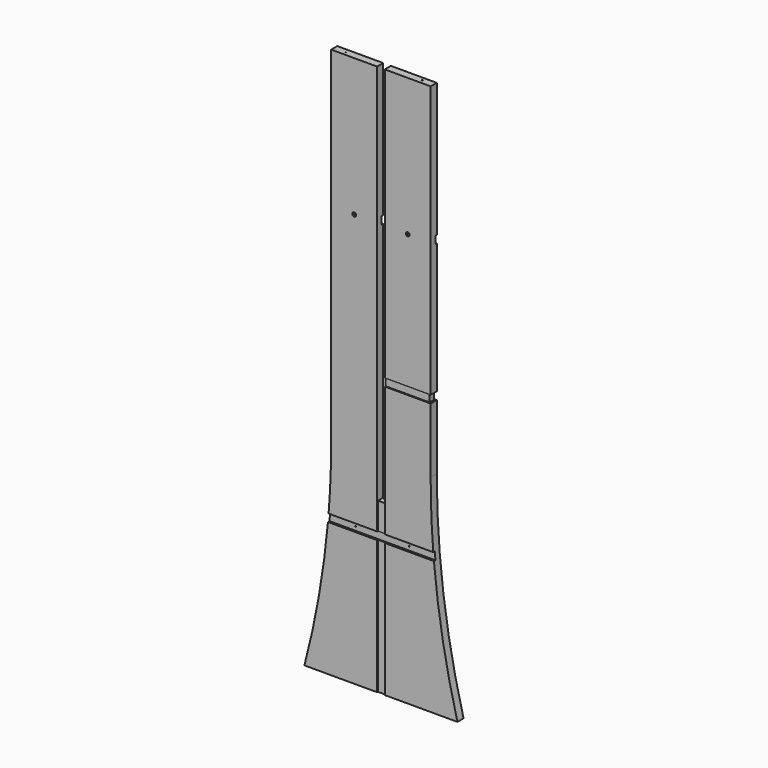
from build123d import *

# Parameters (mm, degrees)
F1_DEPTH       = 12.7
F25_DEPTH      = 38.1
F3_D           = 3.175
F3_DEPTH       = 63.5
F3_CBORE_D     = 12.7
F3_CBORE_DEPTH = 6.35
F3_TIP         = 0.9538662327
F5_D           = 3.175
F5_DEPTH       = 63.5
F5_CBORE_D     = 12.7
F5_CBORE_DEPTH = 6.35
F5_TIP         = 0.9538662327
F7_D           = 3.175
F7_DEPTH       = 63.5
F7_TIP         = 0.9538662327
F9_D           = 3.175
F9_DEPTH       = 63.5
F9_TIP         = 0.9538662327
F10_W          = 330.2
F10_H          = 25.4
F11_DEPTH      = 6.35
F12_W          = 426.9362986088
F12_H          = 25.4
F13_DEPTH      = 6.35
F14_W          = 25.4
F14_H          = 558.8
F15_DEPTH      = 3.175
F16_W          = 25.4
F16_H          = 558.8
F17_DEPTH      = 3.175
F19_W          = 12.7
F19_H          = 25.4
F20_DEPTH      = 25.4
F18_W          = 165.1
F18_H          = 25.4
F21_DEPTH      = 3.175
F22_W          = 165.1
F22_H          = 25.4
F23_DEPTH      = 3.175


with BuildPart() as f1:
    # F0 (on Front) → F1 (new body, symmetric)
    with BuildSketch(Plane.XZ):
        with BuildLine():
            Line((165.1, 1828.8), (0, 1828.8))
            Line((0, 1828.8), (-165.1, 1828.8))
            Line((-165.1, 1828.8), (-165.1, 685.8))
            ThreePointArc((-165.1, 685.8), (-187.4175900274, 340.0309838924), (-254, 0))
            Line((-254, 0), (0, 0))
            Line((0, 0), (254, 0))
            ThreePointArc((254, 0), (187.4175900273, 340.0309838924), (165.1, 685.8))
            Line((165.1, 685.8), (165.1, 1828.8))
        make_face()
    extrude(amount=F1_DEPTH, both=True)

    # F24 (on face) → F25 (cut)
    with BuildSketch(Plane.XZ.offset(12.7)):
        Polygon((-12.7, 558.8), (0, 558.8), (12.7, 558.8), (12.7, 1828.8), (0, 1828.8), (-12.7, 1828.8), align=None)
    extrude(amount=-F25_DEPTH, mode=Mode.SUBTRACT)

    # F3
    with Locations(Plane.XZ.offset(12.7)):
        with Locations((-88.9, 1371.6), (88.9, 1371.6)):
            CounterBoreHole(F3_D / 2, F3_CBORE_D / 2, F3_CBORE_DEPTH, depth=F3_DEPTH)
            with Locations((0, 0, -(F3_DEPTH + F3_TIP / 2))):  # 118° drill point
                Cone(0, F3_D / 2, F3_TIP, mode=Mode.SUBTRACT)

    # F5
    with Locations(Plane(origin=(0, 12.7, 0), x_dir=(-1, 0, 0), z_dir=(0, 1, 0))):
        with Locations((-88.9, 457.2), (88.9, 457.2)):
            CounterBoreHole(F5_D / 2, F5_CBORE_D / 2, F5_CBORE_DEPTH, depth=F5_DEPTH)
            with Locations((0, 0, -(F5_DEPTH + F5_TIP / 2))):  # 118° drill point
                Cone(0, F5_D / 2, F5_TIP, mode=Mode.SUBTRACT)

    # F7
    with Locations(Plane.XY.offset(1828.8)):
        with Locations((-127, 0), (127, 0)):
            Hole(F7_D / 2, depth=F7_DEPTH)
            with Locations((0, 0, -(F7_DEPTH + F7_TIP / 2))):  # 118° drill point
                Cone(0, F7_D / 2, F7_TIP, mode=Mode.SUBTRACT)

    # F9
    with Locations(Plane(origin=(0, 0, 0), x_dir=(1, 0, 0), z_dir=(0, 0, -1))):
        with Locations((-190.5, 0), (190.5, 0)):
            Hole(F9_D / 2, depth=F9_DEPTH)
            with Locations((0, 0, -(F9_DEPTH + F9_TIP / 2))):  # 118° drill point
                Cone(0, F9_D / 2, F9_TIP, mode=Mode.SUBTRACT)

    # F10 (on face) → F11 (cut)
    with BuildSketch(Plane(origin=(0, 12.7, 0), x_dir=(-1, 0, 0), z_dir=(0, 1, 0))):
        with Locations((0, 1371.6)):
            Rectangle(F10_W, F10_H)
    extrude(amount=-F11_DEPTH, mode=Mode.SUBTRACT)

    # F12 (on face) → F13 (cut)
    with BuildSketch(Plane.XZ.offset(12.7)):
        with Locations((0, 457.2)):
            Rectangle(F12_W, F12_H)
    extrude(amount=-F13_DEPTH, mode=Mode.SUBTRACT)

    # F14 (on face) → F15 (cut)
    with BuildSketch(Plane(origin=(0, 12.7, 0), x_dir=(-1, 0, 0), z_dir=(0, 1, 0))):
        with Locations((0, 279.4)):
            Rectangle(F14_W, F14_H)
    extrude(amount=-F15_DEPTH, mode=Mode.SUBTRACT)

    # F16 (on face) → F17 (cut)
    with BuildSketch(Plane.XZ.offset(12.7)):
        with Locations((0, 279.4)):
            Rectangle(F16_W, F16_H)
    extrude(amount=-F17_DEPTH, mode=Mode.SUBTRACT)

    # F19 (on face) → F20 (cut)
    with BuildSketch(Plane.XZ.offset(12.7)):
        with Locations((165.1, 914.4)):
            Rectangle(F19_W, F19_H)
    extrude(amount=-F20_DEPTH, mode=Mode.SUBTRACT)

    # F18 (on face) → F21 (cut)
    with BuildSketch(Plane.XZ.offset(12.7)):
        with Locations((82.55, 914.4)):
            Rectangle(F18_W, F18_H)
    extrude(amount=-F21_DEPTH, mode=Mode.SUBTRACT)

    # F22 (on face) → F23 (cut)
    with BuildSketch(Plane(origin=(0, 12.7, 0), x_dir=(-1, 0, 0), z_dir=(0, 1, 0))):
        with Locations((-82.55, 914.4)):
            Rectangle(F22_W, F22_H)
    extrude(amount=-F23_DEPTH, mode=Mode.SUBTRACT)


solid = f1.part
